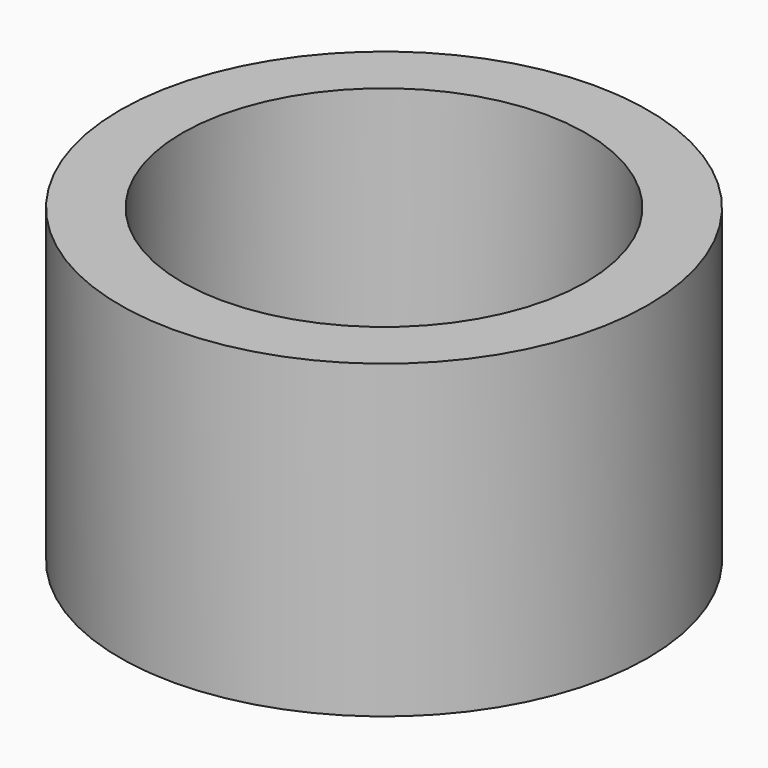
from build123d import *

# Parameters (mm, degrees)
F0_R     = 4.25
F0_R_2   = 3.25
F1_DEPTH = 5


with BuildPart() as f1:
    # F0 (on Top) → F1 (new body)
    with BuildSketch(Plane.XY):
        Circle(F0_R)
        Circle(F0_R_2, mode=Mode.SUBTRACT)
        Circle(F0_R)
        Circle(F0_R_2, mode=Mode.SUBTRACT)
    extrude(amount=F1_DEPTH)


solid = f1.part
